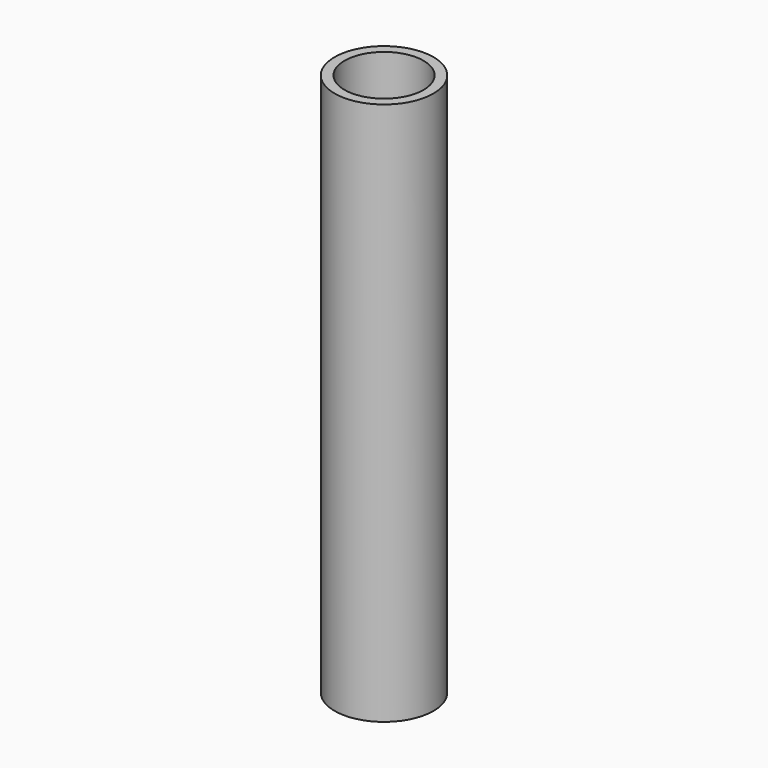
from build123d import *

# Parameters (mm, degrees)
SKETCH_R   = 5
SKETCH_R_2 = 4
PAD_DEPTH  = 55


with BuildPart() as part:
    # Sketch → Pad (new body)
    with BuildSketch(Plane.XY):
        Circle(SKETCH_R)
        Circle(SKETCH_R_2, mode=Mode.SUBTRACT)
    extrude(amount=PAD_DEPTH)


solid = part.part
